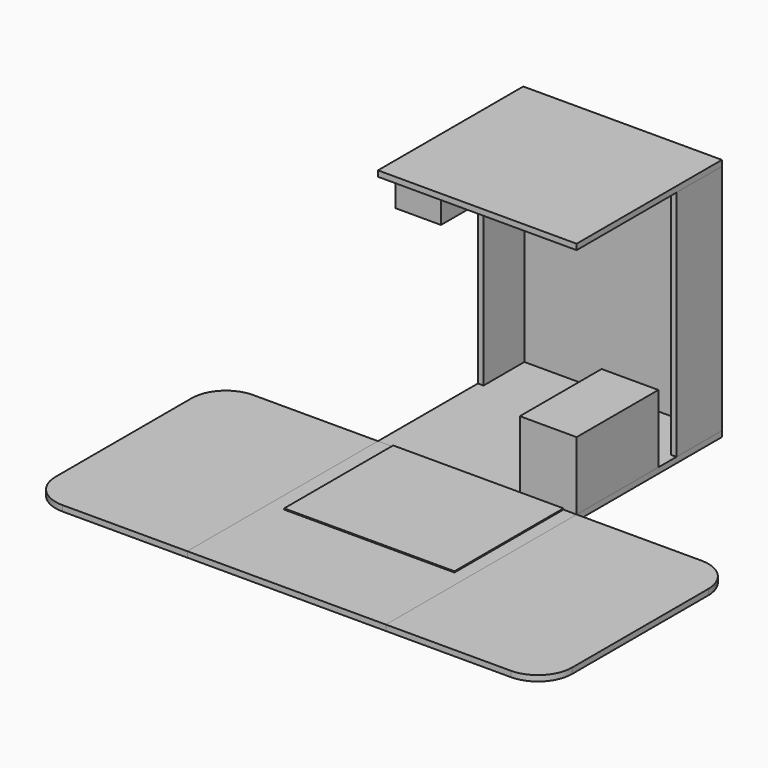
from build123d import *

# Parameters (mm, degrees)
F0_W      = 355.6
F0_H      = 533.4
F1_DEPTH  = 12.7
F2_DEPTH  = 12.7
F3_DEPTH  = 12.7
F0_W_2    = 419.1
F0_H_2    = 279.4
F0_W_3    = 12.7
F0_H_3    = 127
F4_DEPTH  = 12.7
F7_DEPTH  = 520.7
F5_W      = 419.1
F5_H      = 12.7
F8_DEPTH  = 520.7
F9_R      = 76.2
F9_2_R    = 76.2
F11_DEPTH = 2.54
F12_DEPTH = 152.4
F10_W     = 101.6
F10_H     = 152.4
F13_DEPTH = 63.5


with BuildPart() as f1:
    # F0 (on Top) → F1 (new body)
    with BuildSketch(Plane.XY):
        with Locations((-400.05, -342.9)):
            Rectangle(F0_W, F0_H)
    extrude(amount=F1_DEPTH)

    # F9
    f9_edges = [f1.edges().sort_by_distance(p)[0] for p in [
        (-577.85, -609.6, 6.35),
        (-577.85, -76.2, 6.35),
    ]]
    fillet(f9_edges, radius=F9_R)


with BuildPart() as f2:
    # F0 (on Top) → F2 (new body)
    with BuildSketch(Plane.XY):
        Polygon((-222.25, -76.2), (-222.25, -609.6), (222.25, -609.6), (222.25, -76.2), (209.55, -76.2), (-209.55, -76.2), align=None)
    extrude(amount=F2_DEPTH)


with BuildPart() as f3:
    # F0 (on Top) → F3 (new body)
    with BuildSketch(Plane.XY):
        with Locations((400.05, -342.9)):
            Rectangle(F0_W, F0_H)
    extrude(amount=F3_DEPTH)

    # F9#2
    f9_2_edges = [f3.edges().sort_by_distance(p)[0] for p in [
        (577.85, -609.6, 6.35),
        (577.85, -76.2, 6.35),
    ]]
    fillet(f9_2_edges, radius=F9_2_R)


with BuildPart() as f4:
    # F0 (on Top) → F4 (new body)
    with BuildSketch(Plane.XY):
        with Locations((0, 63.5)):
            Rectangle(F0_W_2, F0_H_2)
        with Locations((-215.9, 63.5)):
            Rectangle(F0_W_3, F0_H_2)
        with Locations((215.9, 63.5)):
            Rectangle(F0_W_3, F0_H_2)
        with Locations((0, 266.7)):
            Rectangle(F0_W_2, F0_H_3)
        with Locations((215.9, 266.7)):
            Rectangle(F0_W_3, F0_H_3)
        with Locations((-215.9, 266.7)):
            Rectangle(F0_W_3, F0_H_3)
    extrude(amount=F4_DEPTH)


with BuildPart() as f6_1:
    # F6: copy of F4
    add(f4.part.moved(Location((0, 0, 533.4))))


with BuildPart() as f7:
    # F5 (on face) → F7 (new body, through all)
    with BuildSketch(Plane.XY.offset(12.7)):
        Polygon((-209.55, 317.5), (-209.55, 330.2), (-222.25, 330.2), (-222.25, 203.2), (-209.55, 203.2), align=None)
    extrude(amount=F7_DEPTH)


with BuildPart() as f7b:
    # F5 (on face) → F7, piece 2 (new body, through all)
    with BuildSketch(Plane.XY.offset(12.7)):
        Polygon((222.25, 330.2), (209.55, 330.2), (209.55, 317.5), (209.55, 203.2), (222.25, 203.2), align=None)
    extrude(amount=F7_DEPTH)


with BuildPart() as f8:
    # F5 (on face) → F8 (new body, through all)
    with BuildSketch(Plane.XY.offset(12.7)):
        with Locations((0, 323.85)):
            Rectangle(F5_W, F5_H)
    extrude(amount=F8_DEPTH)


with BuildPart() as f11:
    # F10 (on face) → F11 (new body)
    with BuildSketch(Plane.XY.offset(12.7)):
        Polygon((192.7463290691, -381), (192.7463290691, -76.2), (95.25, -76.2), (-188.2536709309, -76.2), (-188.2536709309, -381), align=None)
    extrude(amount=F11_DEPTH)


with BuildPart() as f12:
    # F10 (on face) → F12 (new body)
    with BuildSketch(Plane.XY.offset(12.7)):
        Polygon((192.7463290691, -76.2), (222.25, -76.2), (222.25, 152.4), (95.25, 152.4), (95.25, -76.2), align=None)
    extrude(amount=F12_DEPTH)


with BuildPart() as f13:
    # F10 (on face) → F13 (new body)
    with BuildSketch(Plane.XY.offset(12.7)):
        with Locations((-152.4, 101.6)):
            Rectangle(F10_W, F10_H)
    extrude(amount=F13_DEPTH)


with BuildPart() as f13_1:
    # F14: moved
    add(f13.part.moved(Location((0, -76.2, 454.66))))


solid = Compound([f1.part, f2.part, f3.part, f4.part, f6_1.part, f7.part, f7b.part, f8.part, f11.part, f12.part, f13_1.part])
